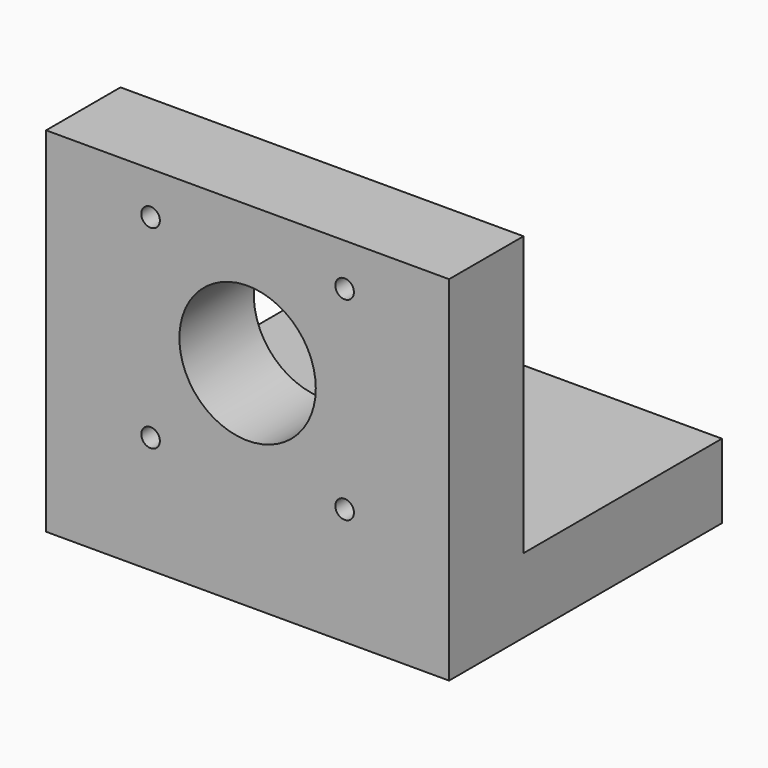
from build123d import *

# Parameters (mm, degrees)
F0_W      = 65
F0_H      = 57
F1_DEPTH  = 55
F2_W      = 65
F2_H      = 45
F3_DEPTH  = 40
F4_R      = 11
F5_DEPTH  = 15
F6_R      = 1.5
F10_DEPTH = 15
F7_R      = 1.5
F11_DEPTH = 15
F8_R      = 1.5
F12_DEPTH = 15
F9_R      = 1.5
F13_DEPTH = 15


with BuildPart() as f1:
    # F0 (on Front) → F1 (new body)
    with BuildSketch(Plane.XZ):
        Rectangle(F0_W, F0_H)
    extrude(amount=-F1_DEPTH)

    # F2 (on face) → F3 (cut)
    with BuildSketch(Plane(origin=(0, 55, 0), x_dir=(-1, 0, 0), z_dir=(0, 1, 0))):
        with Locations((0, 6)):
            Rectangle(F2_W, F2_H)
    extrude(amount=-F3_DEPTH, mode=Mode.SUBTRACT)

    # F4 (on face) → F5 (cut)
    with BuildSketch(Plane.XZ):
        with Locations((0, 6)):
            Circle(F4_R)
    extrude(amount=-F5_DEPTH, mode=Mode.SUBTRACT)

    # F6 (on face) → F10 (cut)
    with BuildSketch(Plane.XZ):
        with Locations((15.65, 21.65)):
            Circle(F6_R)
    extrude(amount=-F10_DEPTH, mode=Mode.SUBTRACT)

    # F7 (on face) → F11 (cut)
    with BuildSketch(Plane.XZ):
        with Locations((-15.65, 21.65)):
            Circle(F7_R)
    extrude(amount=-F11_DEPTH, mode=Mode.SUBTRACT)

    # F8 (on face) → F12 (cut)
    with BuildSketch(Plane.XZ):
        with Locations((15.65, -9.65)):
            Circle(F8_R)
    extrude(amount=-F12_DEPTH, mode=Mode.SUBTRACT)

    # F9 (on face) → F13 (cut)
    with BuildSketch(Plane.XZ):
        with Locations((-15.65, -9.65)):
            Circle(F9_R)
    extrude(amount=-F13_DEPTH, mode=Mode.SUBTRACT)


solid = f1.part
